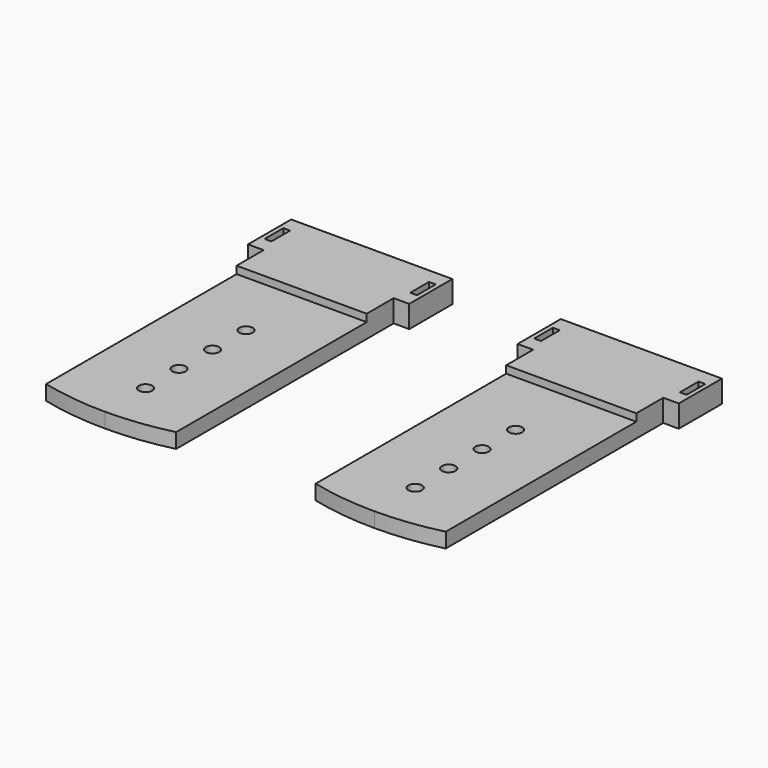
from build123d import *

# Parameters (mm, degrees)
F0_R     = 1
F1_DEPTH = 2.2
F0_W     = 17.25
F0_H     = 8
F0_W_2   = 1.025
F0_W_3   = 2.305
F0_W_4   = 1
F0_H_2   = 3.470716
F2_DEPTH = 3.3


with BuildPart() as f1:
    # F0 (on Top) → F1 (new body)
    with BuildSketch(Plane.XY):
        with BuildLine():
            ThreePointArc((-9.65, -17.085604), (-4.859998, -17.957849), (0, -18.25))
            ThreePointArc((0, -18.25), (4.859998, -17.957849), (9.65, -17.085604))
            Line((9.65, -17.085604), (9.65, 18.25))
            Line((9.65, 18.25), (-9.65, 18.25))
            Line((-9.65, 18.25), (-9.65, -17.085604))
        make_face()
        with Locations((0, -10.69029)):
            Circle(F0_R, mode=Mode.SUBTRACT)
        with Locations((0, -4.48347)):
            Circle(F0_R, mode=Mode.SUBTRACT)
        with Locations((0, 1.72335)):
            Circle(F0_R, mode=Mode.SUBTRACT)
        with Locations((0, 7.93017)):
            Circle(F0_R, mode=Mode.SUBTRACT)
    extrude(amount=F1_DEPTH)

    # F0 (on Top) → F2 (join)
    with BuildSketch(Plane.XY):
        with Locations((0, 27.25)):
            Rectangle(F0_W, F0_H)
        Polygon((-9.65, 23.25), (-9.65, 18.25), (9.65, 18.25), (9.65, 23.25), (8.625, 23.25), (-8.625, 23.25), align=None)
        with Locations((-9.1375, 27.25)):
            Rectangle(F0_W_2, F0_H)
        with Locations((-10.8025, 27.25)):
            Rectangle(F0_W_3, F0_H)
        with Locations((-10.8025, 27.25)):
            Rectangle(F0_W_4, F0_H_2, mode=Mode.SUBTRACT)
        with Locations((9.1375, 27.25)):
            Rectangle(F0_W_2, F0_H)
        with Locations((10.8025, 27.25)):
            Rectangle(F0_W_3, F0_H)
        with Locations((10.8025, 27.25)):
            Rectangle(F0_W_4, F0_H_2, mode=Mode.SUBTRACT)
    extrude(amount=F2_DEPTH)


with BuildPart() as f4_1:
    # F4: instance of F1
    add(f1.part.mirror(Plane.YZ.offset(20)))


solid = Compound([f1.part, f4_1.part])
